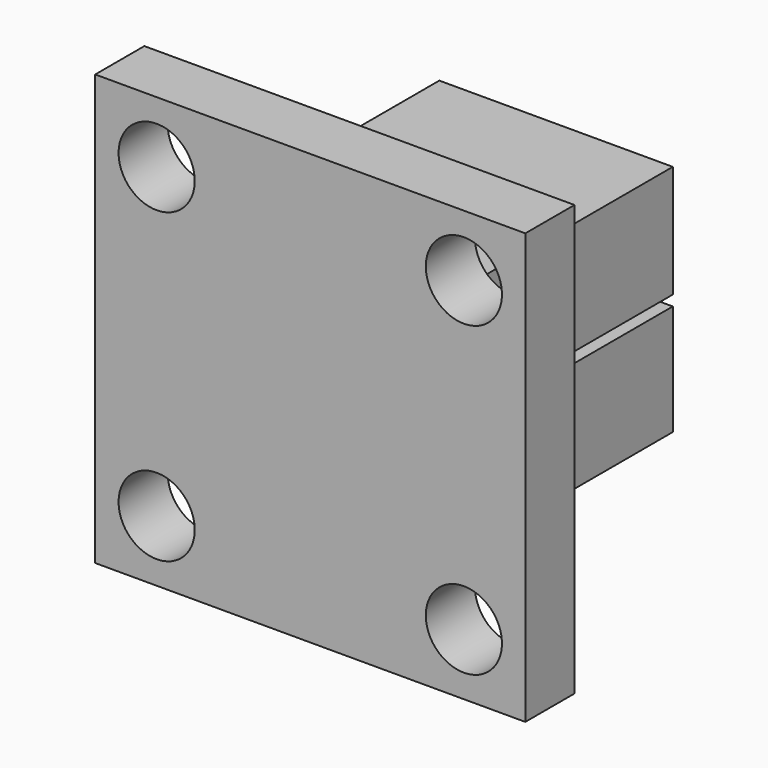
from build123d import *

# Parameters (mm, degrees)
F0_W     = 35
F0_H     = 35
F1_DEPTH = 5
F2_R     = 3.1
F3_DEPTH = 5.001
F4_W     = 19
F4_H     = 19
F5_DEPTH = 20
F6_W     = 19
F6_H     = 0.85
F7_DEPTH = 15


with BuildPart() as f1:
    # F0 (on Front) → F1 (new body)
    with BuildSketch(Plane.XZ):
        with Locations((0.559466, -17.5)):
            Rectangle(F0_W, F0_H)
    extrude(amount=F1_DEPTH)

    # F2 (on face) → F3 (cut, through all)
    with BuildSketch(Plane(origin=(0, 0, 0), x_dir=(-1, 0, 0), z_dir=(0, 1, 0))):
        with Locations((-13.059466, -5)):
            Circle(F2_R)
        with Locations((11.940534, -5)):
            Circle(F2_R)
        with Locations((-13.059466, -30)):
            Circle(F2_R)
        with Locations((11.940534, -30)):
            Circle(F2_R)
    extrude(amount=-F3_DEPTH, mode=Mode.SUBTRACT)

    # F4 (on face) → F5 (join)
    with BuildSketch(Plane(origin=(0, 0, 0), x_dir=(-1, 0, 0), z_dir=(0, 1, 0))):
        with Locations((-0.559466, -17.5)):
            Rectangle(F4_W, F4_H)
    extrude(amount=F5_DEPTH)

    # F6 (on face) → F7 (cut)
    with BuildSketch(Plane(origin=(0, 20, 0), x_dir=(-1, 0, 0), z_dir=(0, 1, 0))):
        with Locations((-0.559466, -17.575)):
            Rectangle(F6_W, F6_H)
    extrude(amount=-F7_DEPTH, mode=Mode.SUBTRACT)


solid = f1.part
